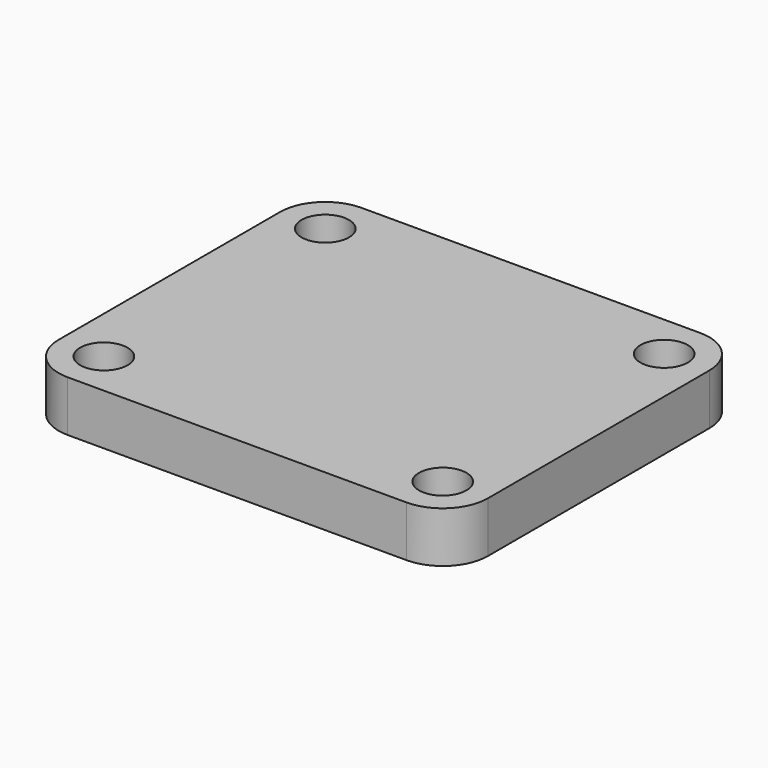
from build123d import *

# Parameters (mm, degrees)
F0_R     = 2.1
F1_DEPTH = 4.5


with BuildPart() as f1:
    # F0 (on Top) → F1 (new body)
    with BuildSketch(Plane.XY):
        with BuildLine():
            Line((15, 16.25), (-15, 16.25))
            ThreePointArc((-15, 16.25), (-17.828427, 15.078427), (-19, 12.25))
            Line((-19, 12.25), (-19, -12.25))
            ThreePointArc((-19, -12.25), (-17.828427, -15.078427), (-15, -16.25))
            Line((-15, -16.25), (15, -16.25))
            ThreePointArc((15, -16.25), (17.828427, -15.078427), (19, -12.25))
            Line((19, -12.25), (19, 12.25))
            ThreePointArc((19, 12.25), (17.828427, 15.078427), (15, 16.25))
        make_face()
        with Locations((-15, -12.25)):
            Circle(F0_R, mode=Mode.SUBTRACT)
        with Locations((15, -12.25)):
            Circle(F0_R, mode=Mode.SUBTRACT)
        with Locations((-15, 12.25)):
            Circle(F0_R, mode=Mode.SUBTRACT)
        with Locations((15, 12.25)):
            Circle(F0_R, mode=Mode.SUBTRACT)
    extrude(amount=-F1_DEPTH)


solid = f1.part
